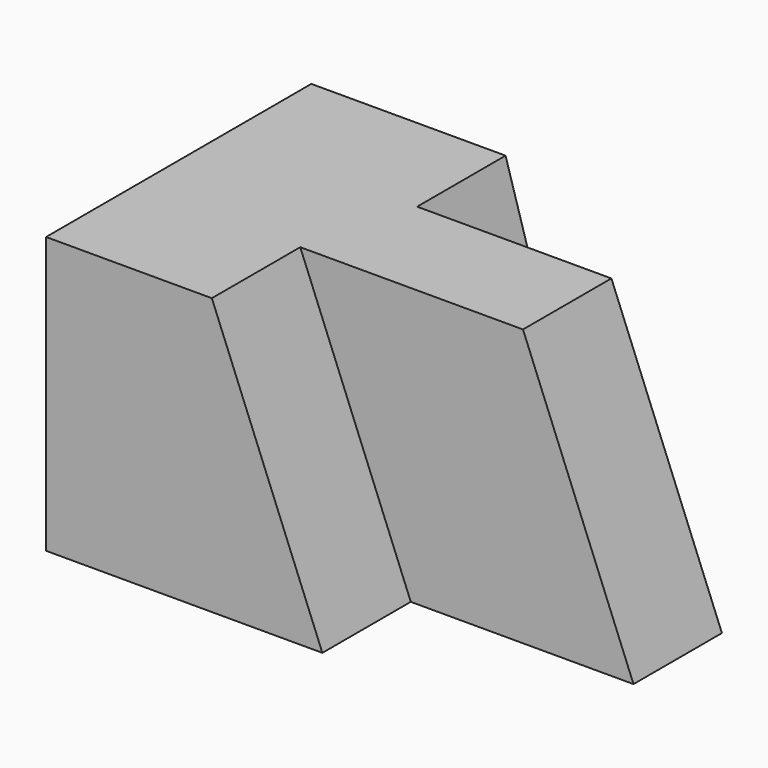
from build123d import *

# Parameters (mm, degrees)
F1_DEPTH = 12.7
F3_DEPTH = 12.7
F5_DEPTH = 25.4
F7_DEPTH = 12.7


with BuildPart() as f1:
    # F0 (on Front) → F1 (new body)
    with BuildSketch(Plane.XZ):
        Polygon((-53.534672, 31.75), (-53.534672, 0), (3.615328, 0), (-9.084672, 31.75), align=None)
    extrude(amount=F1_DEPTH)

    # F2 (on Front) → F3 (join)
    with BuildSketch(Plane.XZ):
        Polygon((-53.729344, 31.75), (-53.729344, 0), (-21.979344, 0), (-34.679344, 31.75), align=None)
    extrude(amount=F3_DEPTH)

    # F4 (on Front) → F5 (join)
    with BuildSketch(Plane.XZ):
        Polygon((-53.729344, 31.75), (-53.729344, 0), (-21.979344, 0), (-34.679344, 31.75), align=None)
    extrude(amount=F5_DEPTH)

    # F6 (on face) → F7 (join)
    with BuildSketch(Plane(origin=(0, 0, 0), x_dir=(-1, 0, 0), z_dir=(0, 1, 0))):
        Polygon((21.979344, 0), (53.729344, 0), (53.729344, 31.75), (31.407008, 31.75), align=None)
    extrude(amount=F7_DEPTH)


solid = f1.part
